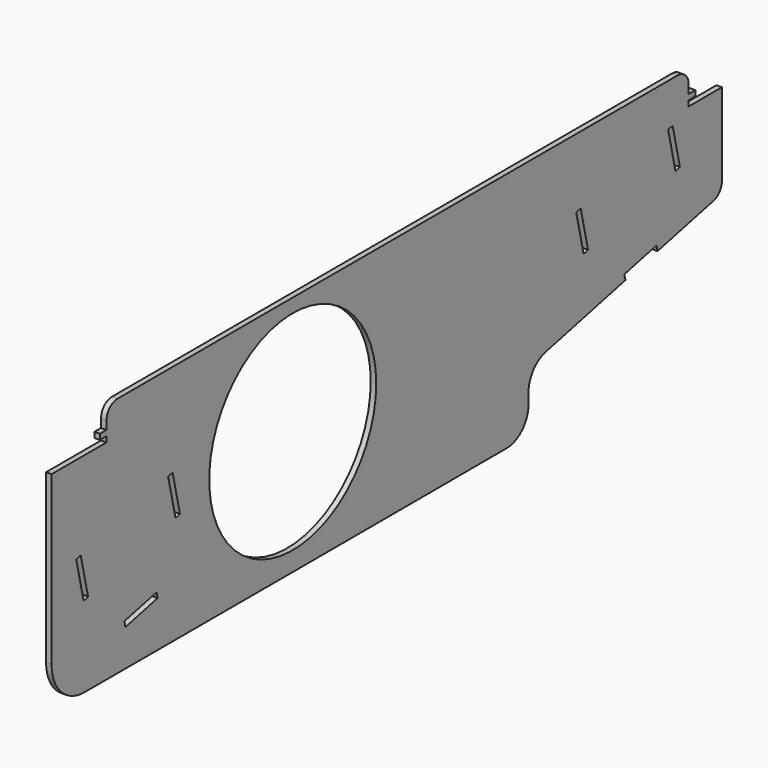
from build123d import *

# Parameters (mm, degrees)
F0_R     = 38
F0_W     = 3
F0_H     = 2
F1_DEPTH = 2


with BuildPart() as f1:
    # F0 (on Right) → F1 (new body)
    with BuildSketch(Plane.YZ):
        with BuildLine():
            Line((-146.682539, 58.671261), (-146.682539, 55.671261))
            Line((-146.682539, 55.671261), (-146.682539, 53.671261))
            Line((-146.682539, 53.671261), (-146.682539, 51.671261))
            Line((-146.682539, 51.671261), (-171.682539, 51.671261))
            Line((-171.682539, 51.671261), (-171.682539, -9.328739))
            ThreePointArc((-171.682539, -9.328739), (-167.289141, -19.935341), (-156.682539, -24.328739))
            Line((-156.682539, -24.328739), (-56.206871, -24.328739))
            Line((-56.206871, -24.328739), (35.424741, -24.216021))
            ThreePointArc((35.424741, -24.216021), (42.4922, -21.278392), (45.412432, -14.203727))
            Line((45.412432, -14.203727), (45.407673, -10.334779))
            ThreePointArc((45.407673, -10.334779), (47.586471, -4.091191), (53.185443, -0.572517))
            Line((53.185443, -0.572517), (74.875972, 4.371213))
            Line((74.875972, 4.371213), (89.500913, 7.704547))
            Line((89.500913, 7.704547), (89.034246, 9.752038))
            Line((89.034246, 9.752038), (103.659187, 13.085372))
            Line((103.659187, 13.085372), (104.125853, 11.03788))
            Line((104.125853, 11.03788), (118.750794, 14.371213))
            Line((118.750794, 14.371213), (129.528572, 16.827697))
            ThreePointArc((129.528572, 16.827697), (132.32614, 18.584629), (133.417461, 21.702677))
            Line((133.417461, 21.702677), (133.417461, 51.671261))
            Line((133.417461, 51.671261), (118.317461, 51.671261))
            Line((118.317461, 51.671261), (118.317461, 53.671261))
            Line((118.317461, 53.671261), (118.317461, 55.671261))
            Line((118.317461, 55.671261), (118.317461, 58.671261))
            ThreePointArc((118.317461, 58.671261), (116.852995, 62.206795), (113.317461, 63.671261))
            Line((113.317461, 63.671261), (-141.682539, 63.671261))
            ThreePointArc((-141.682539, 63.671261), (-145.218073, 62.206795), (-146.682539, 58.671261))
        make_face()
        Polygon((-123.432658, -7.662072), (-138.057599, -10.995406), (-138.524265, -8.947914), (-123.899325, -5.614581), align=None, mode=Mode.SUBTRACT)
        Polygon((-155.079492, 5.637848), (-157.126984, 5.171182), (-160.460317, 19.796122), (-158.412825, 20.262789), align=None, mode=Mode.SUBTRACT)
        Polygon((-116.585495, 29.796122), (-113.252162, 15.171182), (-115.299654, 14.704515), (-118.632987, 29.329456), align=None, mode=Mode.SUBTRACT)
        with Locations((-61.929516, 20.671261)):
            Circle(F0_R, mode=Mode.SUBTRACT)
        Polygon((72.479019, 24.337801), (70.431528, 23.871134), (67.098194, 38.496075), (69.145686, 38.962742), align=None, mode=Mode.SUBTRACT)
        Polygon((110.973016, 48.496075), (114.30635, 33.871134), (112.258858, 33.404468), (108.925524, 48.029408), align=None, mode=Mode.SUBTRACT)
        with Locations((119.817461, 54.671261)):
            Rectangle(F0_W, F0_H)
        with Locations((-148.182539, 54.671261)):
            Rectangle(F0_W, F0_H)
        with BuildLine():
            Line((-146.682539, 58.671261), (-146.682539, 55.671261))
            Line((-146.682539, 55.671261), (-146.682539, 53.671261))
            Line((-146.682539, 53.671261), (-146.682539, 51.671261))
            Line((-146.682539, 51.671261), (-171.682539, 51.671261))
            Line((-171.682539, 51.671261), (-171.682539, -9.328739))
            ThreePointArc((-171.682539, -9.328739), (-167.289141, -19.935341), (-156.682539, -24.328739))
            Line((-156.682539, -24.328739), (-56.206871, -24.328739))
            Line((-56.206871, -24.328739), (35.424741, -24.216021))
            ThreePointArc((35.424741, -24.216021), (42.4922, -21.278392), (45.412432, -14.203727))
            Line((45.412432, -14.203727), (45.407673, -10.334779))
            ThreePointArc((45.407673, -10.334779), (47.586471, -4.091191), (53.185443, -0.572517))
            Line((53.185443, -0.572517), (74.875972, 4.371213))
            Line((74.875972, 4.371213), (89.500913, 7.704547))
            Line((89.500913, 7.704547), (89.034246, 9.752038))
            Line((89.034246, 9.752038), (103.659187, 13.085372))
            Line((103.659187, 13.085372), (104.125853, 11.03788))
            Line((104.125853, 11.03788), (118.750794, 14.371213))
            Line((118.750794, 14.371213), (129.528572, 16.827697))
            ThreePointArc((129.528572, 16.827697), (132.32614, 18.584629), (133.417461, 21.702677))
            Line((133.417461, 21.702677), (133.417461, 51.671261))
            Line((133.417461, 51.671261), (118.317461, 51.671261))
            Line((118.317461, 51.671261), (118.317461, 53.671261))
            Line((118.317461, 53.671261), (118.317461, 55.671261))
            Line((118.317461, 55.671261), (118.317461, 58.671261))
            ThreePointArc((118.317461, 58.671261), (116.852995, 62.206795), (113.317461, 63.671261))
            Line((113.317461, 63.671261), (-141.682539, 63.671261))
            ThreePointArc((-141.682539, 63.671261), (-145.218073, 62.206795), (-146.682539, 58.671261))
        make_face()
        Polygon((-123.432658, -7.662072), (-138.057599, -10.995406), (-138.524265, -8.947914), (-123.899325, -5.614581), align=None, mode=Mode.SUBTRACT)
        Polygon((-155.079492, 5.637848), (-157.126984, 5.171182), (-160.460317, 19.796122), (-158.412825, 20.262789), align=None, mode=Mode.SUBTRACT)
        Polygon((-116.585495, 29.796122), (-113.252162, 15.171182), (-115.299654, 14.704515), (-118.632987, 29.329456), align=None, mode=Mode.SUBTRACT)
        with Locations((-61.929516, 20.671261)):
            Circle(F0_R, mode=Mode.SUBTRACT)
        Polygon((72.479019, 24.337801), (70.431528, 23.871134), (67.098194, 38.496075), (69.145686, 38.962742), align=None, mode=Mode.SUBTRACT)
        Polygon((110.973016, 48.496075), (114.30635, 33.871134), (112.258858, 33.404468), (108.925524, 48.029408), align=None, mode=Mode.SUBTRACT)
    extrude(amount=F1_DEPTH)


solid = f1.part
